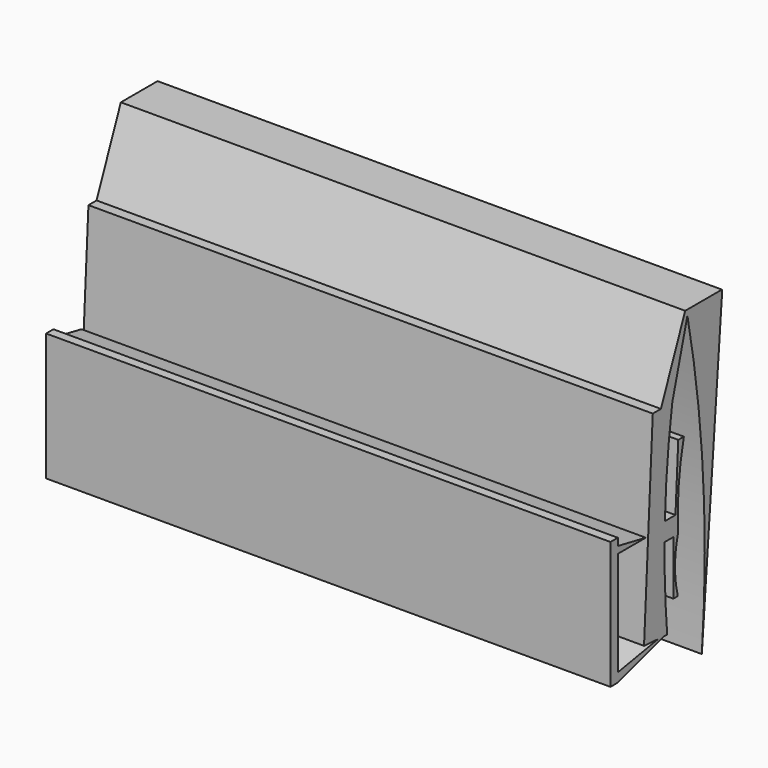
from build123d import *

# Parameters (mm, degrees)
F1_DEPTH = 147.32


with BuildPart() as f1:
    # F0 (on Right) → F1 (new body)
    with BuildSketch(Plane.YZ):
        with BuildLine():
            ThreePointArc((24.258795, 42.852239), (29.425423, 3.173674), (28.962893, -36.837183))
            Line((28.962893, -36.837183), (35.518621, 42.852239))
            Line((35.518621, 42.852239), (35.518621, 44.263195))
            Line((35.518621, 44.263195), (23.532314, 44.263195))
            Line((23.532314, 44.263195), (15.612524, 24.936173))
            Line((15.612524, 24.936173), (12.957067, 24.936173))
            Line((12.957067, 24.936173), (10.105034, -27.285542))
            Line((10.105034, -27.285542), (14.647772, -27.594539))
            Line((14.647772, -27.594539), (1.533326, -29.900596))
            Line((1.533326, -29.900596), (1.533326, -32.253832))
            Line((1.533326, -32.253832), (16.461874, -27.717934))
            Line((16.461874, -27.717934), (17.66051, -27.799465))
            ThreePointArc((17.66051, -27.799465), (16.965006, -16.995465), (16.803154, -6.170311))
            Line((16.803154, -6.170311), (19.67486, -6.170311))
            Line((19.67486, -6.170311), (19.67486, -20.326534))
            Line((19.67486, -20.326534), (21.120926, -20.326534))
            ThreePointArc((21.120926, -20.326534), (20.199131, -13.248423), (21.120926, -6.170311))
            Line((21.120926, -6.170311), (21.120926, -1.381459))
            ThreePointArc((21.120926, -1.381459), (21.617316, 7.127331), (23.099752, 15.520679))
            Line((23.099752, 15.520679), (21.273144, 15.520679))
            Line((21.273144, 15.520679), (20.359838, -1.381459))
            Line((20.359838, -1.381459), (16.901962, -1.381459))
            ThreePointArc((16.901962, -1.381459), (17.716712, 11.813857), (19.324498, 24.936173))
            Line((19.324498, 24.936173), (24.258795, 42.852239))
        make_face()
        Polygon((1.533326, -32.253832), (1.533326, -29.900596), (1.533326, -2.657373), (10.679564, -2.657373), (1.533326, -0.847192), (1.533326, 1.053498), (-0.862751, 1.053498), (-0.862751, -32.253832), align=None)
    extrude(amount=F1_DEPTH)


solid = f1.part
